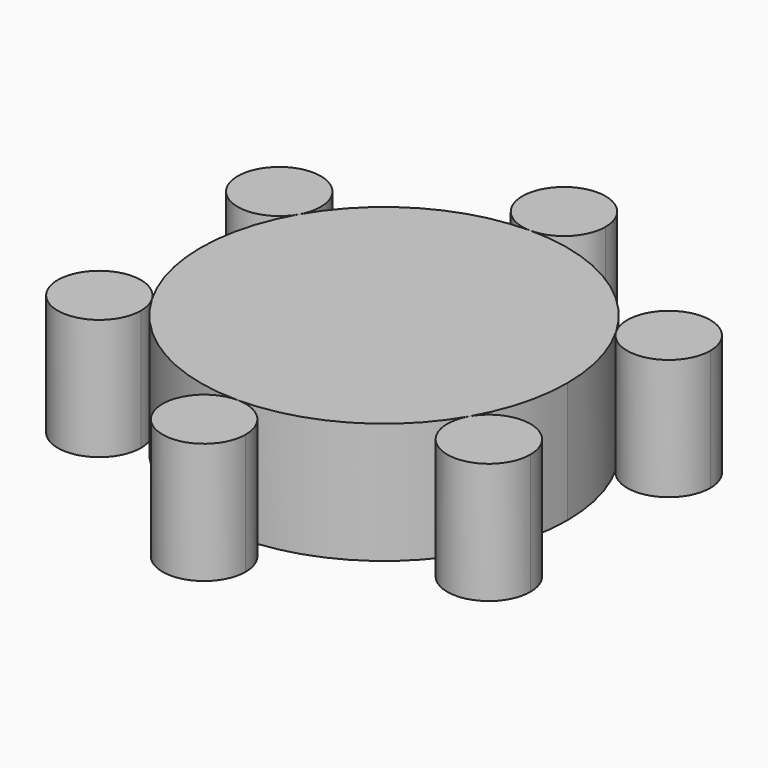
from build123d import *

# Parameters (mm, degrees)
F1_DEPTH = 25.4


with BuildPart() as f1:
    # F0 (on Top) → F1 (new body)
    with BuildSketch(Plane.XY):
        with BuildLine():
            ThreePointArc((8.738001, 47.26227), (-6.1787, 53.44097), (0, 38.524269))
            ThreePointArc((0, 38.524269), (6.1787, 41.08357), (8.738001, 47.26227))
        make_face()
        with BuildLine():
            ThreePointArc((33.362996, -19.262135), (37.211586, -9.970815), (38.524269, 0))
            ThreePointArc((38.524269, 0), (37.211586, 9.970814), (33.362996, 19.262134))
            ThreePointArc((33.362996, 19.262134), (19.262135, 33.362996), (0, 38.524269))
            ThreePointArc((0, 38.524269), (-19.262135, 33.362996), (-33.362996, 19.262134))
            ThreePointArc((-33.362996, 19.262134), (-38.524269, 0), (-33.362996, -19.262134))
            ThreePointArc((-33.362996, -19.262134), (-19.262135, -33.362996), (0, -38.524269))
            ThreePointArc((0, -38.524269), (19.262134, -33.362996), (33.362996, -19.262135))
        make_face()
        with BuildLine():
            ThreePointArc((49.668327, 23.631135), (38.668765, 32.071396), (33.362996, 19.262134))
            ThreePointArc((33.362996, 19.262134), (43.191888, 15.190874), (49.668327, 23.631135))
        make_face()
        with BuildLine():
            ThreePointArc((49.668327, -23.631135), (43.191887, -15.190874), (33.362996, -19.262135))
            ThreePointArc((33.362996, -19.262135), (38.668765, -32.071396), (49.668327, -23.631135))
        make_face()
        with BuildLine():
            ThreePointArc((8.738001, -47.26227), (6.1787, -41.08357), (0, -38.524269))
            ThreePointArc((0, -38.524269), (-6.1787, -53.44097), (8.738001, -47.26227))
        make_face()
        with BuildLine():
            ThreePointArc((-32.192326, -23.631135), (-32.490066, -21.369574), (-33.362996, -19.262134))
            ThreePointArc((-33.362996, -19.262134), (-49.370587, -25.892696), (-32.192326, -23.631135))
        make_face()
        with BuildLine():
            ThreePointArc((-32.192326, 23.631135), (-49.370587, 25.892696), (-33.362996, 19.262134))
            ThreePointArc((-33.362996, 19.262134), (-32.490066, 21.369574), (-32.192326, 23.631135))
        make_face()
    extrude(amount=F1_DEPTH)


solid = f1.part
